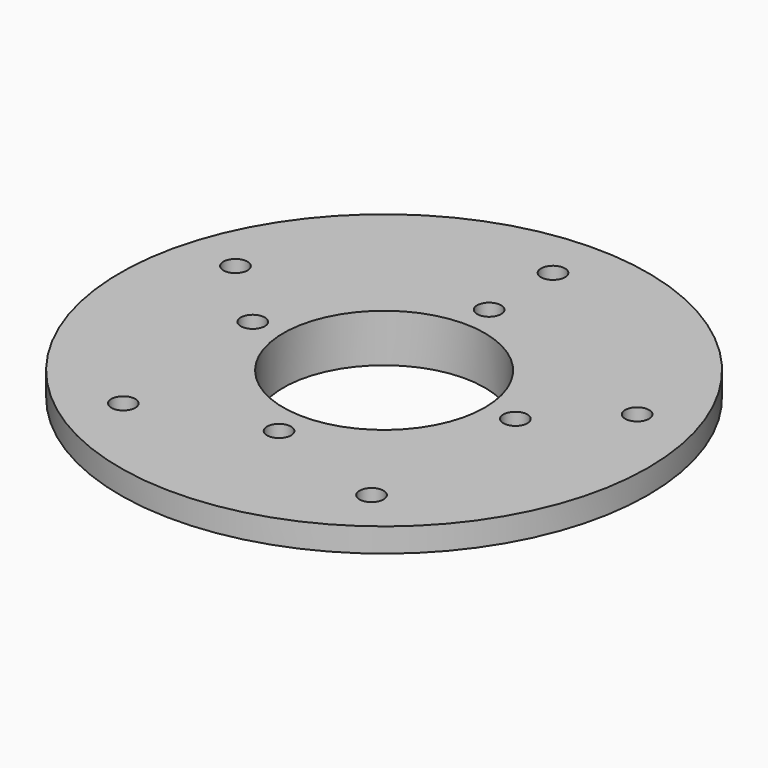
from build123d import *

# Parameters (mm, degrees)
F0_R     = 34.925
F0_R_2   = 1.5875
F0_R_3   = 13.335
F1_DEPTH = 6.35
F2_R     = 34.925
F2_R_2   = 22.5
F3_DEPTH = 3.175


with BuildPart() as f1:
    # F0 (on Top) → F1 (new body)
    with BuildSketch(Plane.XY):
        Circle(F0_R)
        with Locations((-16.42272, -22.603935)):
            Circle(F0_R_2, mode=Mode.SUBTRACT)
        with Locations((16.42272, -22.603935)):
            Circle(F0_R_2, mode=Mode.SUBTRACT)
        with Locations((0, -17.375)):
            Circle(F0_R_2, mode=Mode.SUBTRACT)
        with Locations((-26.572519, 8.633935)):
            Circle(F0_R_2, mode=Mode.SUBTRACT)
        with Locations((-17.375, 0)):
            Circle(F0_R_2, mode=Mode.SUBTRACT)
        Circle(F0_R_3, mode=Mode.SUBTRACT)
        with Locations((17.375, 0)):
            Circle(F0_R_2, mode=Mode.SUBTRACT)
        with Locations((0, 17.375)):
            Circle(F0_R_2, mode=Mode.SUBTRACT)
        with Locations((26.572519, 8.633935)):
            Circle(F0_R_2, mode=Mode.SUBTRACT)
        with Locations((0, 27.94)):
            Circle(F0_R_2, mode=Mode.SUBTRACT)
    extrude(amount=F1_DEPTH)

    # F2 (on face) → F3 (cut)
    with BuildSketch(Plane(origin=(0, 0, 0), x_dir=(1, 0, 0), z_dir=(0, 0, -1))):
        Circle(F2_R)
        Circle(F2_R_2, mode=Mode.SUBTRACT)
    extrude(amount=-F3_DEPTH, mode=Mode.SUBTRACT)


solid = f1.part
